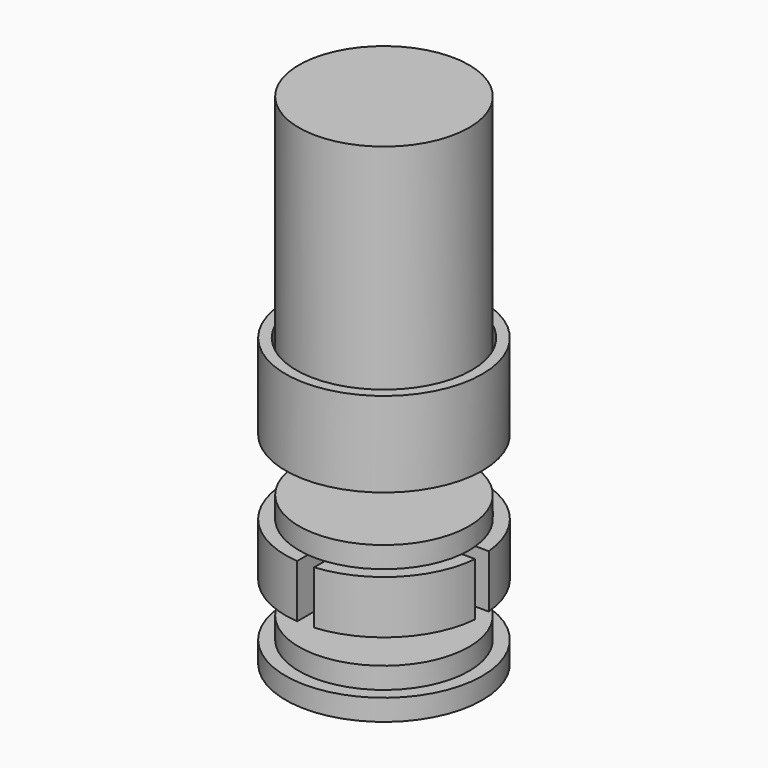
from build123d import *

# Parameters (mm, degrees)
F0_R          = 8
F1_DEPTH      = 25
F2_R          = 9.25
F2_R_2        = 8.25
F3_DEPTH      = 5
F3_DEPTH_BACK = 3
F5_R          = 8
F6_DEPTH      = 2
F8_DEPTH      = 5
F10_R         = 8
F11_DEPTH     = 2
F10_R_2       = 9.25
F12_DEPTH     = 2


with BuildPart() as f1:
    # F0 (on Top) → F1 (new body)
    with BuildSketch(Plane.XY):
        Circle(F0_R)
    extrude(amount=F1_DEPTH)


with BuildPart() as f3:
    # F2 (on Top) → F3 (new body, two sides)
    with BuildSketch(Plane.XY) as f3_sk:
        Circle(F2_R)
        Circle(F2_R_2, mode=Mode.SUBTRACT)
    extrude(amount=F3_DEPTH)
    extrude(f3_sk.sketch, amount=-F3_DEPTH_BACK)


with BuildPart() as f6:
    # F5 (on offset) → F6 (new body)
    with BuildSketch(Plane(origin=(0, 0, -10), x_dir=(1, 0, 0), z_dir=(0, 0, -1))):
        Circle(F5_R)
    extrude(amount=-F6_DEPTH)

    # F7 (on offset) → F8 (join)
    with BuildSketch(Plane(origin=(0, 0, -10), x_dir=(1, 0, 0), z_dir=(0, 0, -1))):
        with BuildLine():
            Line((-0.8, 0.8), (-0.8, 9.2153404712))
            ThreePointArc((-0.8, 9.2153404712), (-6.540737726, 6.540737726), (-9.2153404712, 0.8))
            Line((-9.2153404712, 0.8), (-0.8, 0.8))
        make_face()
        with BuildLine():
            Line((0.8, 0.8), (9.2153404712, 0.8))
            ThreePointArc((9.2153404712, 0.8), (6.540737726, 6.540737726), (0.8, 9.2153404712))
            Line((0.8, 9.2153404712), (0.8, 0.8))
        make_face()
        with BuildLine():
            ThreePointArc((-9.2153404712, -0.8), (-6.540737726, -6.540737726), (-0.8, -9.2153404712))
            Line((-0.8, -9.2153404712), (-0.8, -0.8))
            Line((-0.8, -0.8), (-9.2153404712, -0.8))
        make_face()
        with BuildLine():
            ThreePointArc((0.8, -9.2153404712), (6.540737726, -6.540737726), (9.2153404712, -0.8))
            Line((9.2153404712, -0.8), (0.8, -0.8))
            Line((0.8, -0.8), (0.8, -9.2153404712))
        make_face()
    extrude(amount=F8_DEPTH)


with BuildPart() as f11:
    # F10 (on offset) → F11 (new body)
    with BuildSketch(Plane.XY.offset(-20)):
        Circle(F10_R)
    extrude(amount=F11_DEPTH)

    # F10 (on offset) → F12 (join)
    with BuildSketch(Plane.XY.offset(-20)):
        Circle(F10_R_2)
        Circle(F10_R, mode=Mode.SUBTRACT)
        Circle(F10_R)
    extrude(amount=-F12_DEPTH)


solid = Compound([f1.part, f3.part, f6.part, f11.part])
